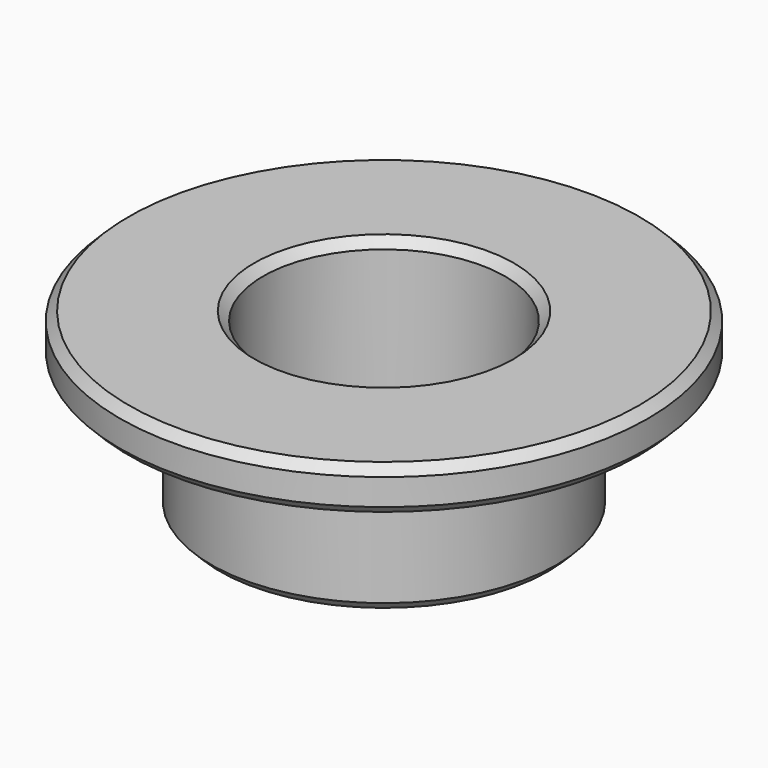
from build123d import *

# Parameters (mm, degrees)
CYLINDER040_R               = 5.5
CYLINDER040_DEPTH           = 8
CYLINDER039_R               = 12
CYLINDER039_DEPTH           = 2
CYLINDER038_R               = 7.85
CYLINDER038_DEPTH           = 8
CHAMFER003068012002091_SIZE = 0.4


with BuildPart() as cylinder040:
    # Cylinder040 → Cylinder040 (new body)
    with BuildSketch(Plane.XY.offset(-2)):
        Circle(CYLINDER040_R)
    extrude(amount=CYLINDER040_DEPTH)


with BuildPart() as cylinder039:
    # Cylinder039 → Cylinder039 (new body)
    with BuildSketch(Plane.XY.offset(4)):
        Circle(CYLINDER039_R)
    extrude(amount=CYLINDER039_DEPTH)


with BuildPart() as bearing_remover_bottom:
    # Cylinder038 → Cylinder038 (new body)
    with BuildSketch(Plane.XY.offset(-2)):
        Circle(CYLINDER038_R)
    extrude(amount=CYLINDER038_DEPTH)

    # Fusion001002012036: union Cylinder039
    add(cylinder039.part)

    # Cut001042: cut Cylinder040
    add(cylinder040.part, mode=Mode.SUBTRACT)

    # Chamfer003068012002091
    chamfer003068012002091_edges = [bearing_remover_bottom.edges().sort_by_distance(p)[0] for p in [
        (-12, 0, 6),
        (-12, 0, 4),
        (-7.85, 0, -2),
        (-5.5, 0, 6),
        (-5.5, 0, -2),
    ]]
    chamfer(chamfer003068012002091_edges, length=CHAMFER003068012002091_SIZE)


with BuildPart() as bearing_remover_bottom_1:
    # Chamfer003068012002091 placement: moved
    add(bearing_remover_bottom.part.moved(Location((0, 0, 6))))


solid = bearing_remover_bottom_1.part
